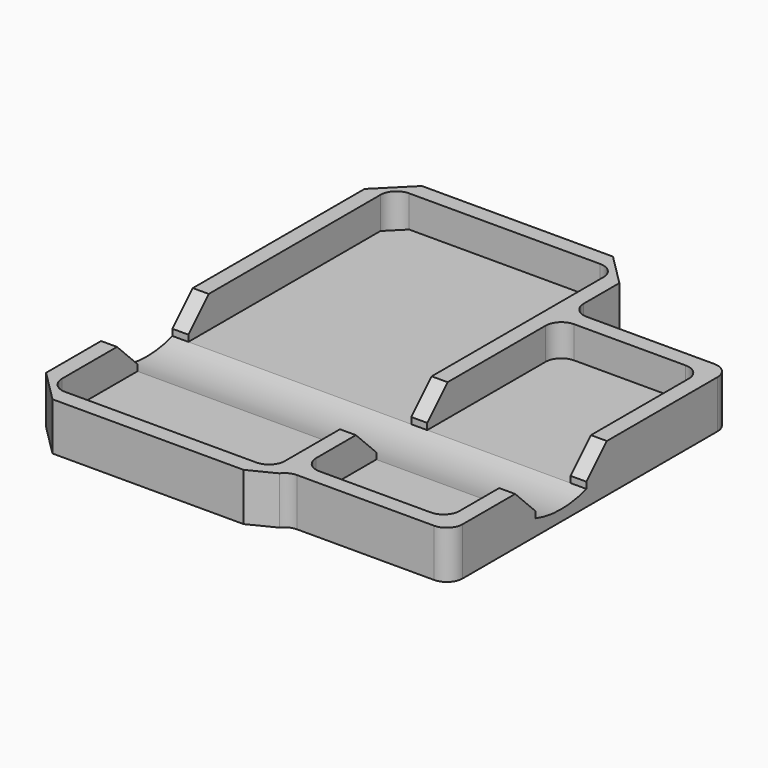
from build123d import *

# Parameters (mm, degrees)
F1_DEPTH = 6.35
F2_DEPTH = 19.05
F4_DEPTH = 127
F5_SIZE  = 10.16


with BuildPart() as f1:
    # F0 (on Top) → F1 (new body)
    with BuildSketch(Plane.XY):
        with BuildLine():
            Line((50.8, 61.6115713388), (50.8, 79.375))
            Line((50.8, 79.375), (38.1, 92.075))
            Line((38.1, 92.075), (-38.1, 92.075))
            Line((-38.1, 92.075), (-50.8, 79.375))
            Line((-50.8, 79.375), (-50.8, -79.375))
            Line((-50.8, -79.375), (-38.1, -92.075))
            Line((-38.1, -92.075), (38.1, -92.075))
            Line((38.1, -92.075), (48.2682762921, -86.9839524408))
            ThreePointArc((48.2682762921, -86.9839524408), (50.5095218971, -85.1103601516), (53.3524144382, -84.4384286612))
            Line((53.3524144382, -84.4384286612), (107.95, -84.4384286612))
            ThreePointArc((107.95, -84.4384286612), (112.4401280605, -82.5785567218), (114.3, -78.0884286612))
            Line((114.3, -78.0884286612), (114.3, 48.9115713388))
            ThreePointArc((114.3, 48.9115713388), (112.4401280605, 53.4016993993), (107.95, 55.2615713388))
            Line((107.95, 55.2615713388), (57.15, 55.2615713388))
            ThreePointArc((57.15, 55.2615713388), (52.6598719395, 57.1214432782), (50.8, 61.6115713388))
        make_face()
        with BuildLine():
            ThreePointArc((-44.45, 79.375), (-42.5901280605, 83.8651280605), (-38.1, 85.725))
            Line((-38.1, 85.725), (38.1, 85.725))
            ThreePointArc((38.1, 85.725), (42.5901280605, 83.8651280605), (44.45, 79.375))
            Line((44.45, 79.375), (44.45, -79.375))
            ThreePointArc((44.45, -79.375), (42.5901280605, -83.8651280605), (38.1, -85.725))
            Line((38.1, -85.725), (-38.1, -85.725))
            ThreePointArc((-38.1, -85.725), (-42.5901280605, -83.8651280605), (-44.45, -79.375))
            Line((-44.45, -79.375), (-44.45, 79.375))
        make_face(mode=Mode.SUBTRACT)
        with BuildLine():
            Line((101.6, -78.0884286612), (57.15, -78.0884286612))
            ThreePointArc((57.15, -78.0884286612), (52.6598719395, -76.2285567218), (50.8, -71.7384286612))
            Line((50.8, -71.7384286612), (50.8, 42.5615713388))
            ThreePointArc((50.8, 42.5615713388), (52.6598719395, 47.0516993993), (57.15, 48.9115713388))
            Line((57.15, 48.9115713388), (101.6, 48.9115713388))
            ThreePointArc((101.6, 48.9115713388), (106.0901280605, 47.0516993993), (107.95, 42.5615713388))
            Line((107.95, 42.5615713388), (107.95, -71.7384286612))
            ThreePointArc((107.95, -71.7384286612), (106.0901280605, -76.2285567218), (101.6, -78.0884286612))
        make_face(mode=Mode.SUBTRACT)
        Polygon((38.1, 85.725), (-38.1, 85.725), (-44.45, 79.375), (-44.45, -79.375), (-38.1, -85.725), (38.1, -85.725), (44.45, -79.375), (44.45, 79.375), align=None)
        with BuildLine():
            ThreePointArc((50.8, -71.7384286612), (52.6598719395, -76.2285567218), (57.15, -78.0884286612))
            Line((57.15, -78.0884286612), (101.6, -78.0884286612))
            ThreePointArc((101.6, -78.0884286612), (106.0901280605, -76.2285567218), (107.95, -71.7384286612))
            Line((107.95, -71.7384286612), (107.95, 42.5615713388))
            ThreePointArc((107.95, 42.5615713388), (106.0901280605, 47.0516993993), (101.6, 48.9115713388))
            Line((101.6, 48.9115713388), (57.15, 48.9115713388))
            ThreePointArc((57.15, 48.9115713388), (52.6598719395, 47.0516993993), (50.8, 42.5615713388))
            Line((50.8, 42.5615713388), (50.8, -71.7384286612))
        make_face()
    extrude(amount=F1_DEPTH)

    # F0 (on Top) → F2 (join)
    with BuildSketch(Plane.XY):
        with BuildLine():
            Line((50.8, 61.6115713388), (50.8, 79.375))
            Line((50.8, 79.375), (38.1, 92.075))
            Line((38.1, 92.075), (-38.1, 92.075))
            Line((-38.1, 92.075), (-50.8, 79.375))
            Line((-50.8, 79.375), (-50.8, -79.375))
            Line((-50.8, -79.375), (-38.1, -92.075))
            Line((-38.1, -92.075), (38.1, -92.075))
            Line((38.1, -92.075), (48.2682762921, -86.9839524408))
            ThreePointArc((48.2682762921, -86.9839524408), (50.5095218971, -85.1103601516), (53.3524144382, -84.4384286612))
            Line((53.3524144382, -84.4384286612), (107.95, -84.4384286612))
            ThreePointArc((107.95, -84.4384286612), (112.4401280605, -82.5785567218), (114.3, -78.0884286612))
            Line((114.3, -78.0884286612), (114.3, 48.9115713388))
            ThreePointArc((114.3, 48.9115713388), (112.4401280605, 53.4016993993), (107.95, 55.2615713388))
            Line((107.95, 55.2615713388), (57.15, 55.2615713388))
            ThreePointArc((57.15, 55.2615713388), (52.6598719395, 57.1214432782), (50.8, 61.6115713388))
        make_face()
        with BuildLine():
            ThreePointArc((-44.45, 79.375), (-42.5901280605, 83.8651280605), (-38.1, 85.725))
            Line((-38.1, 85.725), (38.1, 85.725))
            ThreePointArc((38.1, 85.725), (42.5901280605, 83.8651280605), (44.45, 79.375))
            Line((44.45, 79.375), (44.45, -79.375))
            ThreePointArc((44.45, -79.375), (42.5901280605, -83.8651280605), (38.1, -85.725))
            Line((38.1, -85.725), (-38.1, -85.725))
            ThreePointArc((-38.1, -85.725), (-42.5901280605, -83.8651280605), (-44.45, -79.375))
            Line((-44.45, -79.375), (-44.45, 79.375))
        make_face(mode=Mode.SUBTRACT)
        with BuildLine():
            Line((101.6, -78.0884286612), (57.15, -78.0884286612))
            ThreePointArc((57.15, -78.0884286612), (52.6598719395, -76.2285567218), (50.8, -71.7384286612))
            Line((50.8, -71.7384286612), (50.8, 42.5615713388))
            ThreePointArc((50.8, 42.5615713388), (52.6598719395, 47.0516993993), (57.15, 48.9115713388))
            Line((57.15, 48.9115713388), (101.6, 48.9115713388))
            ThreePointArc((101.6, 48.9115713388), (106.0901280605, 47.0516993993), (107.95, 42.5615713388))
            Line((107.95, 42.5615713388), (107.95, -71.7384286612))
            ThreePointArc((107.95, -71.7384286612), (106.0901280605, -76.2285567218), (101.6, -78.0884286612))
        make_face(mode=Mode.SUBTRACT)
    extrude(amount=F2_DEPTH)

    # F3 (on Right) → F4 (cut, symmetric)
    with BuildSketch(Plane.YZ):
        with BuildLine():
            ThreePointArc((-41.7938075632, 6.35), (-29.0938075632, 4.3464379948), (-16.3938075632, 6.35))
            Line((-16.3938075632, 6.35), (-16.3938075632, 53.7061375175))
            Line((-16.3938075632, 53.7061375175), (-41.7938075632, 53.7061375175))
            Line((-41.7938075632, 53.7061375175), (-41.7938075632, 6.35))
        make_face()
    extrude(amount=F4_DEPTH, both=True, mode=Mode.SUBTRACT)

    # F5
    f5_edges = [f1.edges().sort_by_distance(p)[0] for p in [
        (111.125, -16.393808, 19.05),
        (47.625, -16.393808, 19.05),
        (-47.625, -16.393808, 19.05),
        (-47.625, -41.793808, 19.05),
        (47.625, -41.793808, 19.05),
        (111.125, -41.793808, 19.05),
    ]]
    chamfer(f5_edges, length=F5_SIZE)


solid = f1.part
